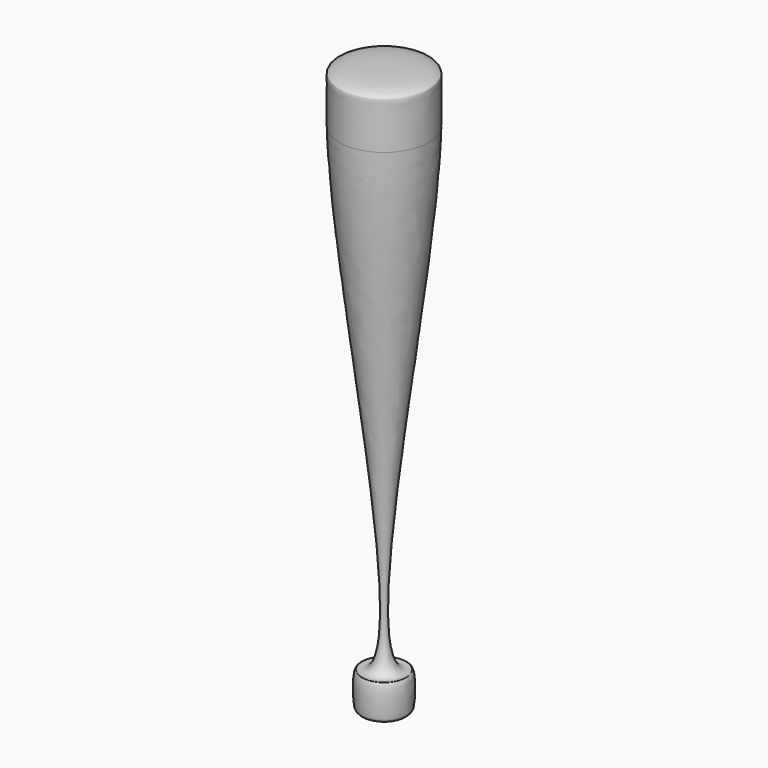
from build123d import *


with BuildPart() as f1:
    # F0 (on Front) → F1 (revolve)
    with BuildSketch(Plane.XZ):
        with BuildLine():
            Line((0, 40), (0, 0))
            add(Edge.make_bspline(
                [(0, 0), (1.6131633099, 0), (1.6902651048, 0.1773399244), (1.7551462612, 2.604256264), (1.5325120185, 2.6193312369)],
                knots=[0, 0, 0, 0, 0.4960952192, 1, 1, 1, 1], degree=3))
            add(Edge.make_bspline(
                [(1.5325120185, 2.6193312369), (-2.1039019339, 1.477462356), (2.9452857561, 26.0580256581), (3.1496355404, 36.3058747007)],
                knots=[0, 0, 0, 0, 33.7253361587, 33.7253361587, 33.7253361587, 33.7253361587], degree=3))
            add(Edge.make_bspline(
                [(0, 40), (2.6872083545, 40.0584451854), (3.255428071, 39.3566920487), (3.1599190552, 39.8220904171), (3.1496355404, 36.3058747007)],
                knots=[0, 0, 0, 0, 0.4906633491, 1, 1, 1, 1], degree=3))
        make_face()
    revolve(axis=Axis((0, 0, 20), (0, 0, 1)))


solid = f1.part
